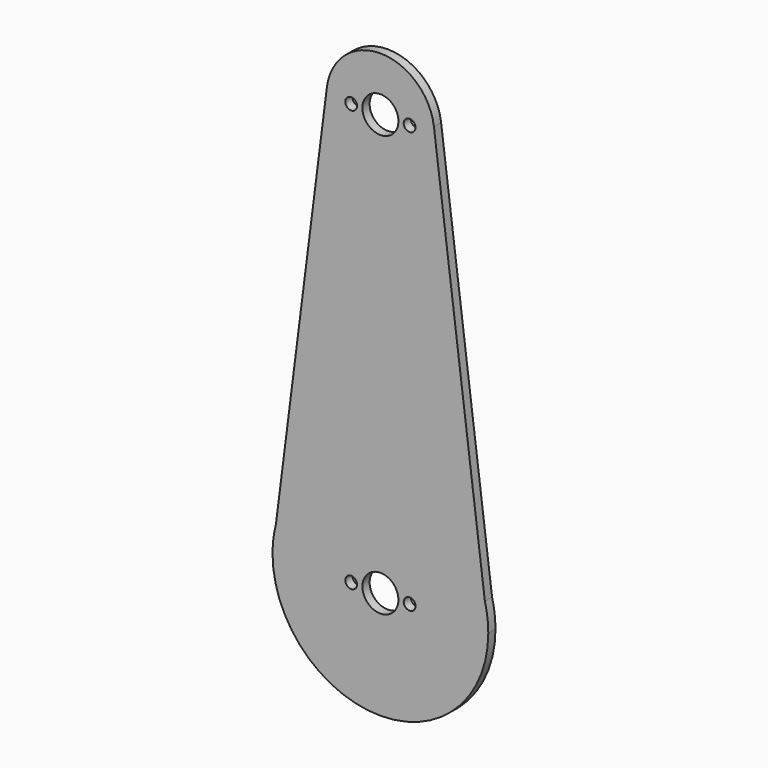
from build123d import *

# Parameters (mm, degrees)
F0_R     = 2.0828
F0_R_2   = 6.35
F1_DEPTH = 3.175


with BuildPart() as f1:
    # F0 (on Front) → F1 (new body)
    with BuildSketch(Plane.XZ):
        with BuildLine():
            Line((-36.890323, 9.524395), (-38.1, 0))
            ThreePointArc((-38.1, 0), (0, -38.1), (38.1, 0))
            Line((38.1, 0), (36.890323, 9.524395))
            ThreePointArc((36.890323, 9.524395), (0, 38.1), (-36.890323, 9.524395))
        make_face()
        with Locations((-10.31875, 0)):
            Circle(F0_R, mode=Mode.SUBTRACT)
        Circle(F0_R_2, mode=Mode.SUBTRACT)
        with Locations((10.31875, 0)):
            Circle(F0_R, mode=Mode.SUBTRACT)
        with BuildLine():
            ThreePointArc((-36.890323, 9.524395), (-37.796371, 4.800454), (-38.1, 0))
            Line((-38.1, 0), (-36.890323, 9.524395))
        make_face()
        with BuildLine():
            Line((36.890323, 9.524395), (38.1, 0))
            ThreePointArc((38.1, 0), (37.796371, 4.800454), (36.890323, 9.524395))
        make_face()
        with BuildLine():
            Line((-18.898185, 151.185483), (-36.890323, 9.524395))
            ThreePointArc((-36.890323, 9.524395), (0, 38.1), (36.890323, 9.524395))
            Line((36.890323, 9.524395), (18.898185, 151.185483))
            ThreePointArc((18.898185, 151.185483), (19.012008, 149.987768), (19.05, 148.785256))
            ThreePointArc((19.05, 148.785256), (-1.202512, 129.773248), (-18.898185, 151.185483))
        make_face()
        with BuildLine():
            ThreePointArc((18.898185, 151.185483), (0, 167.835256), (-18.898185, 151.185483))
            ThreePointArc((-18.898185, 151.185483), (-1.202512, 129.773248), (19.05, 148.785256))
            ThreePointArc((19.05, 148.785256), (19.012008, 149.987768), (18.898185, 151.185483))
        make_face()
        with Locations((-10.31875, 148.785256)):
            Circle(F0_R, mode=Mode.SUBTRACT)
        with Locations((0, 148.785256)):
            Circle(F0_R_2, mode=Mode.SUBTRACT)
        with Locations((10.31875, 148.785256)):
            Circle(F0_R, mode=Mode.SUBTRACT)
    extrude(amount=F1_DEPTH)


solid = f1.part
